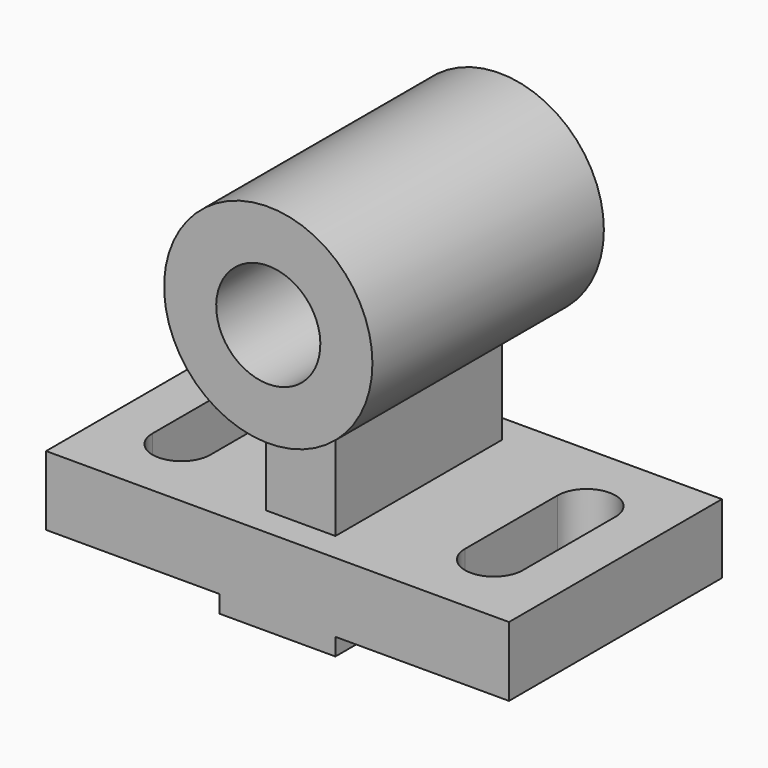
from build123d import *

# Parameters (mm, degrees)
F1_DEPTH = 584.2
F2_DEPTH = 457.2
F3_DEPTH = 635
F5_DEPTH = 381.001


with BuildPart() as f1:
    # F0 (on Front) → F1 (new body, symmetric)
    with BuildSketch(Plane.XZ):
        Polygon((0, -152.4), (0, 152.4), (-152.4, 152.4), (-1016, 152.4), (-1016, -152.4), (-254, -152.4), align=None)
        Polygon((1016, -152.4), (1016, 152.4), (152.4, 152.4), (0, 152.4), (0, -152.4), (254, -152.4), align=None)
        Polygon((254, -228.6), (254, -152.4), (0, -152.4), (-254, -152.4), (-254, -228.6), align=None)
    extrude(amount=F1_DEPTH, both=True)

    # F0 (on Front) → F2 (join, symmetric)
    with BuildSketch(Plane.XZ):
        with BuildLine():
            Line((-152.4, 152.4), (0, 152.4))
            Line((0, 152.4), (0, 533.4))
            ThreePointArc((0, 533.4), (-77.3134246734, 539.9843385264), (-152.4, 559.5477061887))
            Line((-152.4, 559.5477061887), (-152.4, 152.4))
        make_face()
        with BuildLine():
            Line((0, 152.4), (152.4, 152.4))
            Line((152.4, 152.4), (152.4, 559.5477061887))
            ThreePointArc((152.4, 559.5477061887), (77.3134246734, 539.9843385264), (0, 533.4))
            Line((0, 533.4), (0, 152.4))
        make_face()
    extrude(amount=F2_DEPTH, both=True)

    # F0 (on Front) → F3 (join, symmetric)
    with BuildSketch(Plane.XZ):
        with BuildLine():
            Line((152.4, 685.8), (152.4, 559.5477061887))
            ThreePointArc((152.4, 559.5477061887), (373.3022368002, 726.6354569265), (457.2, 990.6))
            ThreePointArc((457.2, 990.6), (-263.9645430735, 1363.9022368002), (-152.4, 559.5477061887))
            Line((-152.4, 559.5477061887), (-152.4, 685.8))
            Line((-152.4, 685.8), (0, 685.8))
            Line((0, 685.8), (152.4, 685.8))
        make_face()
        with BuildLine():
            ThreePointArc((228.6, 990.6), (161.6446101792, 828.9553898208), (0, 762))
            ThreePointArc((0, 762), (-161.6446101792, 1152.2446101792), (228.6, 990.6))
        make_face(mode=Mode.SUBTRACT)
        with BuildLine():
            ThreePointArc((-152.4, 559.5477061887), (-77.3134246734, 539.9843385264), (0, 533.4))
            Line((0, 533.4), (0, 685.8))
            Line((0, 685.8), (-152.4, 685.8))
            Line((-152.4, 685.8), (-152.4, 559.5477061887))
        make_face()
        with BuildLine():
            ThreePointArc((0, 533.4), (77.3134246734, 539.9843385264), (152.4, 559.5477061887))
            Line((152.4, 559.5477061887), (152.4, 685.8))
            Line((152.4, 685.8), (0, 685.8))
            Line((0, 685.8), (0, 533.4))
        make_face()
    extrude(amount=F3_DEPTH, both=True)

    # F4 (on face) → F5 (cut, through all)
    with BuildSketch(Plane.XY.offset(152.4)):
        Polygon((-812.8, 254), (-812.8, 0), (-812.8, -254), (-558.8, -254), (-558.8, 254), align=None)
        with BuildLine():
            ThreePointArc((-558.8, 254), (-685.8, 381), (-812.8, 254))
            Line((-812.8, 254), (-558.8, 254))
        make_face()
        with BuildLine():
            Line((-558.8, -254), (-812.8, -254))
            ThreePointArc((-812.8, -254), (-685.8, -381), (-558.8, -254))
        make_face()
        Polygon((812.8, -254), (812.8, 0), (812.8, 254), (558.8, 254), (558.8, -254), align=None)
        with BuildLine():
            Line((558.8, 254), (812.8, 254))
            ThreePointArc((812.8, 254), (685.8, 381), (558.8, 254))
        make_face()
        with BuildLine():
            ThreePointArc((558.8, -254), (685.8, -381), (812.8, -254))
            Line((812.8, -254), (558.8, -254))
        make_face()
    extrude(amount=-F5_DEPTH, mode=Mode.SUBTRACT)


solid = f1.part
